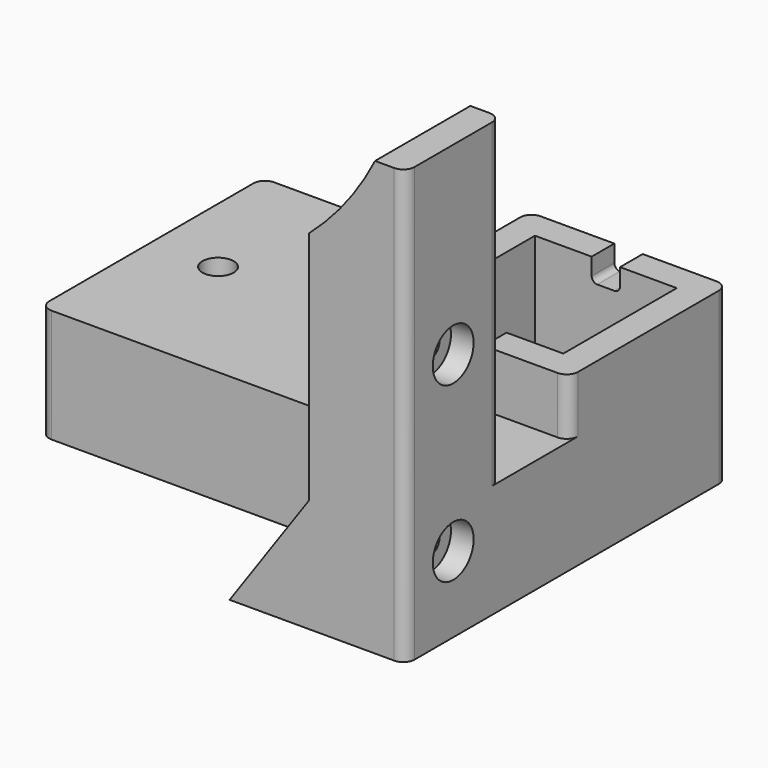
from build123d import *

# Parameters (mm, degrees)
F1_DEPTH  = 21
F2_R      = 2
F3_DEPTH  = 50
F4_R      = 4.5
F5_DEPTH  = 4
F6_R      = 4.5
F7_DEPTH  = 4
F8_R      = 2
F9_DEPTH  = 15
F11_DEPTH = 12
F12_W     = 82.7163627307
F12_H     = 105.0548920631
F12_W_2   = 93.7405878742
F12_H_2   = 84.4749022052
F13_DEPTH = 25
F15_DEPTH = 50
F16_W     = 1
F16_H     = 20
F17_DEPTH = 65
F18_DEPTH = 25
F19_W     = 35
F19_H     = 35
F19_W_2   = 25
F19_H_2   = 25
F20_DEPTH = 10
F21_DEPTH = 25
F22_W     = 5
F22_H     = 8
F23_DEPTH = 41
F24_R     = 1
F25_R     = 2.75
F26_DEPTH = 25
F27_R     = 2


with BuildPart() as f1:
    # F0 (on Front) → F1 (new body)
    with BuildSketch(Plane.XZ):
        with BuildLine():
            ThreePointArc((44.6194845136, -22.563279942), (39.5277888838, -30.6195020528), (33, -37.563279942))
            Line((33, -37.563279942), (33, -79))
            Line((33, -79), (18.9958492358, -99))
            Line((18.9958492358, -99), (0, -99))
            Line((0, -99), (-33, -99))
            Line((-33, -99), (-33, -37.563279942))
            ThreePointArc((-33, -37.563279942), (-39.5277888838, -30.6195020528), (-44.6194845136, -22.563279942))
            Line((-44.6194845136, -22.563279942), (-50, -22.563279942))
            Line((-50, -22.563279942), (-50, -133))
            Line((-50, -133), (-33, -150))
            Line((-33, -150), (-33, -180))
            Line((-33, -180), (-33, -197))
            Line((-33, -197), (0, -197))
            Line((0, -197), (33, -197))
            Line((33, -197), (33, -180))
            Line((33, -180), (33, -150))
            Line((33, -150), (50, -133))
            Line((50, -133), (50, -22.563279942))
            Line((50, -22.563279942), (44.6194845136, -22.563279942))
        make_face()
    extrude(amount=F1_DEPTH)

    # F2 (on Right) → F3 (cut, symmetric)
    with BuildSketch(Plane.YZ):
        with Locations((-10.5, -55.10355)):
            Circle(F2_R)
        with Locations((-10.5, -85.60355)):
            Circle(F2_R)
    extrude(amount=F3_DEPTH, both=True, mode=Mode.SUBTRACT)

    # F4 (on face) → F5 (cut)
    with BuildSketch(Plane(origin=(-50, 0, 0), x_dir=(0, -1, 0), z_dir=(-1, 0, 0))):
        with Locations((10.5, -55.10355)):
            Circle(F4_R)
        with Locations((10.5, -85.60355)):
            Circle(F4_R)
    extrude(amount=-F5_DEPTH, mode=Mode.SUBTRACT)

    # F6 (on face) → F7 (cut)
    with BuildSketch(Plane.YZ.offset(50)):
        with Locations((-10.5, -55.10355)):
            Circle(F6_R)
        with Locations((-10.5, -85.60355)):
            Circle(F6_R)
    extrude(amount=-F7_DEPTH, mode=Mode.SUBTRACT)

    # F8 (on face) → F9 (cut)
    with BuildSketch(Plane(origin=(0, 0, -197), x_dir=(1, 0, 0), z_dir=(0, 0, -1))):
        with BuildLine():
            ThreePointArc((-23, 10.5), (-21, 8.5), (-19, 10.5))
            ThreePointArc((-19, 10.5), (-21, 12.5), (-23, 10.5))
        make_face()
        with Locations((21, 10.5)):
            Circle(F8_R)
    extrude(amount=-F9_DEPTH, mode=Mode.SUBTRACT)

    # F10 (on face) → F11 (cut)
    with BuildSketch(Plane.XZ.offset(21)):
        with BuildLine():
            ThreePointArc((0, -166.5), (-2, -168.5), (0, -170.5))
            Line((0, -170.5), (0, -166.5))
        make_face()
        with BuildLine():
            ThreePointArc((0, -131), (-2, -133), (0, -135))
            Line((0, -135), (0, -131))
        make_face()
        with BuildLine():
            Line((0, -131), (0, -135))
            ThreePointArc((0, -135), (1.4142135624, -134.4142135624), (2, -133))
            ThreePointArc((2, -133), (1.4142135624, -131.5857864376), (0, -131))
        make_face()
        with BuildLine():
            Line((0, -166.5), (0, -170.5))
            ThreePointArc((0, -170.5), (1.4142135624, -169.9142135624), (2, -168.5))
            ThreePointArc((2, -168.5), (1.4142135624, -167.0857864376), (0, -166.5))
        make_face()
    extrude(amount=-F11_DEPTH, mode=Mode.SUBTRACT)

    # F12 (on face) → F13 (cut)
    with BuildSketch(Plane.XZ.offset(21)):
        with Locations((60.3540306012, -151.5274460316)):
            Rectangle(F12_W, F12_H)
        with Locations((-27.8744447013, -151.5274460316)):
            Rectangle(F12_W_2, F12_H)
        with Locations((-27.8744447013, -56.7625488974)):
            Rectangle(F12_W_2, F12_H_2)
    extrude(amount=-F13_DEPTH, mode=Mode.SUBTRACT)

    # F14 (on face) → F15 (join)
    with BuildSketch(Plane(origin=(0, 0, 0), x_dir=(-1, 0, 0), z_dir=(0, 1, 0))):
        Polygon((-50, -79), (-50, -99), (24.0241140127, -99), (32, -99), (32, -79), (24.0241140127, -79), (-33, -79), align=None)
    extrude(amount=F15_DEPTH)

    # F16 (on face) → F17 (cut)
    with BuildSketch(Plane(origin=(-32, 0, 0), x_dir=(0, -1, 0), z_dir=(-1, 0, 0))):
        with Locations((-0.5, -89)):
            Rectangle(F16_W, F16_H)
    extrude(amount=-F17_DEPTH, mode=Mode.SUBTRACT)

    # F18 (add): a face of the model
    f18_faces = [f1.faces().sort_by_distance(p)[0] for p in [
        (28.3319497453, 0, -92.3333333333),
    ]]
    extrude(f18_faces, amount=F18_DEPTH)

    # F19 (on face) → F20 (join)
    with BuildSketch(Plane.XY.offset(-79)):
        with Locations((32.5, 32.5)):
            Rectangle(F19_W, F19_H)
        with Locations((32.5, 32.5)):
            Rectangle(F19_W_2, F19_H_2, mode=Mode.SUBTRACT)
    extrude(amount=F20_DEPTH)

    # F21 (cut): a face of the model
    f21_faces = [f1.faces().sort_by_distance(p)[0] for p in [
        (32.5, 32.5, -79),
    ]]
    extrude(f21_faces, amount=-F21_DEPTH, mode=Mode.SUBTRACT)

    # F22 (on face) → F23 (cut)
    with BuildSketch(Plane(origin=(0, 50, 0), x_dir=(-1, 0, 0), z_dir=(0, 1, 0))):
        with Locations((-32.5, -69)):
            Rectangle(F22_W, F22_H)
    extrude(amount=-F23_DEPTH, mode=Mode.SUBTRACT)

    # F24
    f24_edges = [f1.edges().sort_by_distance(p)[0] for p in [
        (35, 17.5, -73),
        (30, 17.5, -73),
        (35, 47.5, -73),
        (30, 47.5, -73),
    ]]
    fillet(f24_edges, radius=F24_R)

    # F25 (on face) → F26 (cut)
    with BuildSketch(Plane.XY.offset(-79)):
        with BuildLine():
            ThreePointArc((-17.5, 25.5), (-20.25, 28.25), (-23, 25.5))
            Line((-23, 25.5), (-17.5, 25.5))
        make_face()
        with BuildLine():
            Line((-17.5, 25.5), (-23, 25.5))
            ThreePointArc((-23, 25.5), (-20.25, 22.75), (-17.5, 25.5))
        make_face()
        with Locations((3.25, 25.5)):
            Circle(F25_R)
    extrude(amount=-F26_DEPTH, mode=Mode.SUBTRACT)

    # F27
    f27_edges = [f1.edges().sort_by_distance(p)[0] for p in [
        (50, -21, -60.78164),
        (50, 0, -50.78164),
        (50, 50, -84),
        (50, 15, -74),
        (15, 50, -74),
        (15, 15, -74),
        (-32, 50, -89),
        (-32, 1, -89),
    ]]
    fillet(f27_edges, radius=F27_R)


solid = f1.part
